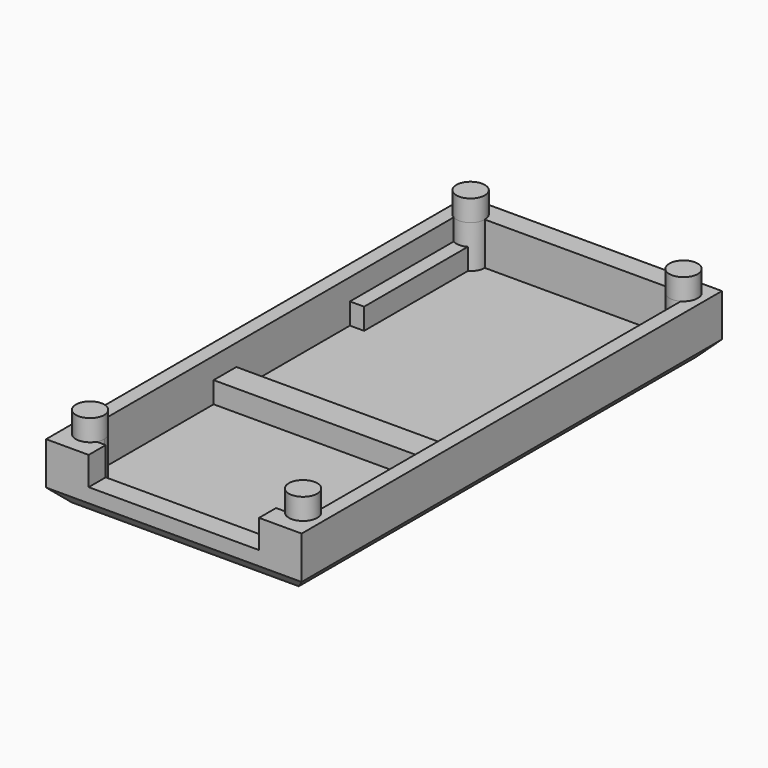
from build123d import *

# Parameters (mm, degrees)
F1_DEPTH       = 37
F2_W           = 12
F2_H           = 2
F3_DEPTH       = 2
F4_W           = 16
F4_H           = 34
F5_DEPTH       = 3
F7_W           = 1
F7_H           = 10
F7_W_2         = 16
F7_H_2         = 2
F8_DEPTH       = 1.5
F9_SIZE        = 1
F10_R          = 1
F11_DEPTH      = 1.5
F11_DEPTH_BACK = 3


with BuildPart() as f1:
    # F0 (on Front) → F1 (new body)
    with BuildSketch(Plane.XZ):
        Polygon((-9, 1), (-8, 0), (8, 0), (9, 1), (9, 4), (6, 4), (6, 2), (-6, 2), (-6, 4), (-9, 4), align=None)
    extrude(amount=F1_DEPTH)

    # F2 (on face) → F3 (join)
    with BuildSketch(Plane(origin=(0, 0, 0), x_dir=(-1, 0, 0), z_dir=(0, 1, 0))):
        with Locations((0, 3)):
            Rectangle(F2_W, F2_H)
    extrude(amount=-F3_DEPTH)

    # F4 (on face) → F5 (cut)
    with BuildSketch(Plane.XY.offset(4)):
        with Locations((0, -18.5)):
            Rectangle(F4_W, F4_H)
    extrude(amount=-F5_DEPTH, mode=Mode.SUBTRACT)

    # F7 (on offset) → F8 (join, through all)
    with BuildSketch(Plane.XY.offset(2.5)):
        with Locations((-7.5, -6.5)):
            Rectangle(F7_W, F7_H)
        with Locations((7.5, -6.5)):
            Rectangle(F7_W, F7_H)
        with Locations((0, -22.5)):
            Rectangle(F7_W_2, F7_H_2)
    extrude(amount=-F8_DEPTH)

    # F9
    f9_edges = [f1.edges().sort_by_distance(p)[0] for p in [
        (0, 0, 0),
        (0, -37, 0),
    ]]
    chamfer(f9_edges, length=F9_SIZE)

    # F10 (on face) → F11 (join, two sides)
    with BuildSketch(Plane.XY.offset(4)) as f11_sk:
        with Locations((7.5, -35)):
            Circle(F10_R)
        with Locations((-7.5, -35)):
            Circle(F10_R)
        with Locations((-7.5, -1.5)):
            Circle(F10_R)
        with Locations((7.5, -1.5)):
            Circle(F10_R)
    extrude(amount=F11_DEPTH)
    extrude(f11_sk.sketch, amount=-F11_DEPTH_BACK)


solid = f1.part
